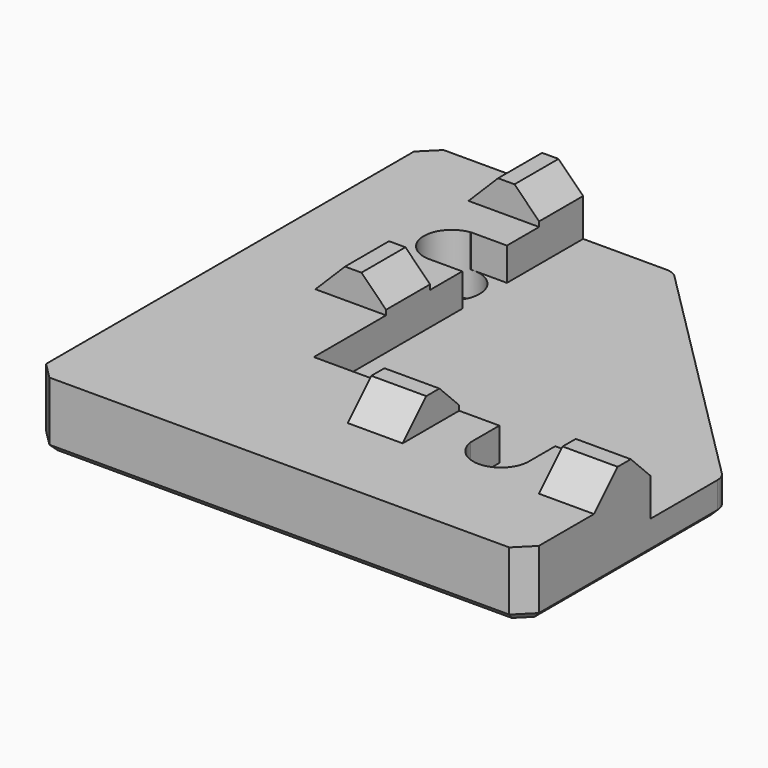
from build123d import *

# Parameters (mm, degrees)
BOX002031_W              = 4.5
BOX002031_H              = 3.35
BOX002031_DEPTH          = 2.3
BOX002033_W              = 3.35
BOX002033_H              = 4.5
BOX002033_DEPTH          = 2.3
BOX002032_W              = 3.35
BOX002032_H              = 4.5
BOX002032_DEPTH          = 2.3
BOX002030_W              = 4.5
BOX002030_H              = 3.35
BOX002030_DEPTH          = 2.3
CHAMFER012008025003_SIZE = 2
CHAMFER012008025004_SIZE = 1.5
BOX002020_W              = 3.4
BOX002020_H              = 4
BOX002020_DEPTH          = 10
CYLINDER041_R            = 1.7
CYLINDER041_DEPTH        = 10
BOX002021_W              = 4
BOX002021_H              = 3.4
BOX002021_DEPTH          = 10
CYLINDER040_R            = 1.7
CYLINDER040_DEPTH        = 10
BOX002019_W              = 30
BOX002019_H              = 30
BOX002019_DEPTH          = 4
BOX002018_W              = 30
BOX002018_H              = 30
BOX002018_DEPTH          = 4
CHAMFER012002_SIZE       = 15
CHAMFER012003_SIZE       = 1
FILLET001_R              = 1
CHAMFER012004_SIZE       = 0.4


with BuildPart() as cube033:
    # Box002031 → Box002031 (new body)
    with BuildSketch(Plane(origin=(5, 15, 3.5), x_dir=(1, 0, 0), z_dir=(0, 0, 1))):
        with Locations((2.25, 1.675)):
            Rectangle(BOX002031_W, BOX002031_H)
    extrude(amount=BOX002031_DEPTH)


with BuildPart() as cube035:
    # Box002033 → Box002033 (new body)
    with BuildSketch(Plane(origin=(15, 5, 3.5), x_dir=(1, 0, 0), z_dir=(0, 0, 1))):
        with Locations((1.675, 2.25)):
            Rectangle(BOX002033_W, BOX002033_H)
    extrude(amount=BOX002033_DEPTH)


with BuildPart() as cube034:
    # Box002032 → Box002032 (new body)
    with BuildSketch(Plane(origin=(26.65, 5, 3.5), x_dir=(1, 0, 0), z_dir=(0, 0, 1))):
        with Locations((1.675, 2.25)):
            Rectangle(BOX002032_W, BOX002032_H)
    extrude(amount=BOX002032_DEPTH)


with BuildPart() as chamfer012008025004:
    # Box002030 → Box002030 (new body)
    with BuildSketch(Plane(origin=(5, 26.65, 3.5), x_dir=(1, 0, 0), z_dir=(0, 0, 1))):
        with Locations((2.25, 1.675)):
            Rectangle(BOX002030_W, BOX002030_H)
    extrude(amount=BOX002030_DEPTH)

    # Fusion025019011007: union Cube033, Cube035, Cube034
    add(cube033.part)
    add(cube035.part)
    add(cube034.part)

    # Chamfer012008025003
    chamfer012008025003_edges = [chamfer012008025004.edges().sort_by_distance(p)[0] for p in [
        (5, 28.325, 5.8),
        (5, 16.675, 5.8),
        (16.675, 5, 5.8),
        (28.325, 5, 5.8),
    ]]
    chamfer(chamfer012008025003_edges, length=CHAMFER012008025003_SIZE)

    # Chamfer012008025004
    chamfer012008025004_edges = [chamfer012008025004.edges().sort_by_distance(p)[0] for p in [
        (9.5, 28.325, 5.8),
        (9.5, 16.675, 5.8),
        (16.675, 9.5, 5.8),
        (28.325, 9.5, 5.8),
    ]]
    chamfer(chamfer012008025004_edges, length=CHAMFER012008025004_SIZE)


with BuildPart() as cube022:
    # Box002020 → Box002020 (new body)
    with BuildSketch(Plane(origin=(20.8, 7.3, 2), x_dir=(1, 0, 0), z_dir=(0, 0, 1))):
        with Locations((1.7, 2)):
            Rectangle(BOX002020_W, BOX002020_H)
    extrude(amount=BOX002020_DEPTH)


with BuildPart() as fusion025008:
    # Cylinder041 → Cylinder041 (new body)
    with BuildSketch(Plane(origin=(22.5, 7.5, 0), x_dir=(1, 0, 0), z_dir=(0, 0, 1))):
        Circle(CYLINDER041_R)
    extrude(amount=CYLINDER041_DEPTH)

    # Fusion025008: union Cube022
    add(cube022.part)


with BuildPart() as cube023:
    # Box002021 → Box002021 (new body)
    with BuildSketch(Plane(origin=(7.3, 20.8, 2), x_dir=(1, 0, 0), z_dir=(0, 0, 1))):
        with Locations((2, 1.7)):
            Rectangle(BOX002021_W, BOX002021_H)
    extrude(amount=BOX002021_DEPTH)


with BuildPart() as fusion025009:
    # Cylinder040 → Cylinder040 (new body)
    with BuildSketch(Plane(origin=(7.5, 22.5, 0), x_dir=(1, 0, 0), z_dir=(0, 0, 1))):
        Circle(CYLINDER040_R)
    extrude(amount=CYLINDER040_DEPTH)

    # Fusion025007: union Cube023
    add(cube023.part)

    # Fusion025009: union Fusion025008
    add(fusion025008.part)


with BuildPart() as cube021:
    # Box002019 → Box002019 (new body)
    with BuildSketch(Plane(origin=(9.5, 9.5, 2), x_dir=(1, 0, 0), z_dir=(0, 0, 1))):
        with Locations((15, 15)):
            Rectangle(BOX002019_W, BOX002019_H)
    extrude(amount=BOX002019_DEPTH)


with BuildPart() as corner_join_f1:
    # Box002018 → Box002018 (new body)
    with BuildSketch(Plane.XY):
        with Locations((15, 15)):
            Rectangle(BOX002018_W, BOX002018_H)
    extrude(amount=BOX002018_DEPTH)

    # Cut001039: cut Cube021
    add(cube021.part, mode=Mode.SUBTRACT)

    # Chamfer012002
    chamfer012002_edges = [corner_join_f1.edges().sort_by_distance(p)[0] for p in [
        (30, 30, 1),
    ]]
    chamfer(chamfer012002_edges, length=CHAMFER012002_SIZE)

    # Chamfer012003
    chamfer012003_edges = [corner_join_f1.edges().sort_by_distance(p)[0] for p in [
        (0, 30, 2),
        (0, 0, 2),
        (30, 0, 2),
    ]]
    chamfer(chamfer012003_edges, length=CHAMFER012003_SIZE)

    # Fillet001
    fillet001_edges = [corner_join_f1.edges().sort_by_distance(p)[0] for p in [
        (15, 30, 1),
        (30, 15, 1),
    ]]
    fillet(fillet001_edges, radius=FILLET001_R)

    # Cut001040: cut Fusion025009
    add(fusion025009.part, mode=Mode.SUBTRACT)

    # Chamfer012004
    chamfer012004_edges = [corner_join_f1.edges().sort_by_distance(p)[0] for p in [
        (7.792893, 30, 0),
        (14.96847, 29.92388, 0),
        (0.5, 29.5, 0),
        (22.5, 22.5, 0),
        (0, 15, 0),
        (29.92388, 14.96847, 0),
        (0.5, 0.5, 0),
        (30, 7.792893, 0),
        (15, 0, 0),
        (29.5, 0.5, 0),
        (5.8, 22.5, 0),
        (20.8, 7.5, 0),
    ]]
    chamfer(chamfer012004_edges, length=CHAMFER012004_SIZE)

    # Fusion025019011008: union Chamfer012008025004
    add(chamfer012008025004.part)


solid = corner_join_f1.part
